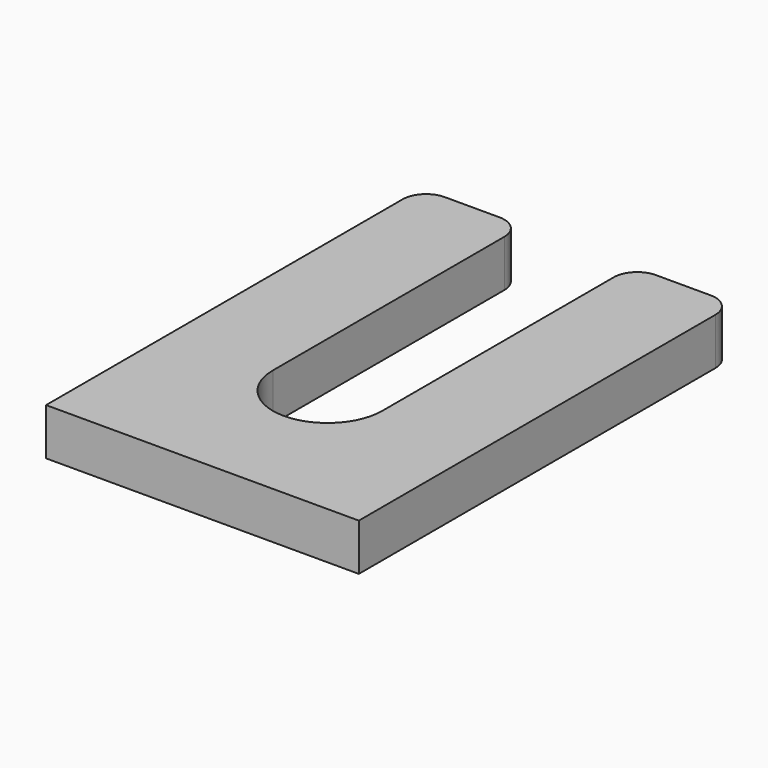
from build123d import *

# Parameters (mm, degrees)
F1_DEPTH = 6


with BuildPart() as f1:
    # F0 (on Top) → F1 (new body)
    with BuildSketch(Plane.XY):
        with BuildLine():
            Line((-17.343273, -14.773325), (22.656727, -14.773325))
            Line((22.656727, -14.773325), (22.656727, 42.226675))
            ThreePointArc((22.656727, 42.226675), (21.778048, 44.347996), (19.656727, 45.226675))
            Line((19.656727, 45.226675), (12.656727, 45.226675))
            ThreePointArc((12.656727, 45.226675), (10.535407, 44.347996), (9.656727, 42.226675))
            Line((9.656727, 42.226675), (9.656727, 5.226675))
            ThreePointArc((9.656727, 5.226675), (2.656727, -1.773325), (-4.343273, 5.226675))
            Line((-4.343273, 5.226675), (-4.343273, 42.226675))
            ThreePointArc((-4.343273, 42.226675), (-5.221952, 44.347996), (-7.343273, 45.226675))
            Line((-7.343273, 45.226675), (-14.343273, 45.226675))
            ThreePointArc((-14.343273, 45.226675), (-16.464593, 44.347996), (-17.343273, 42.226675))
            Line((-17.343273, 42.226675), (-17.343273, -14.773325))
        make_face()
    extrude(amount=F1_DEPTH)


solid = f1.part
